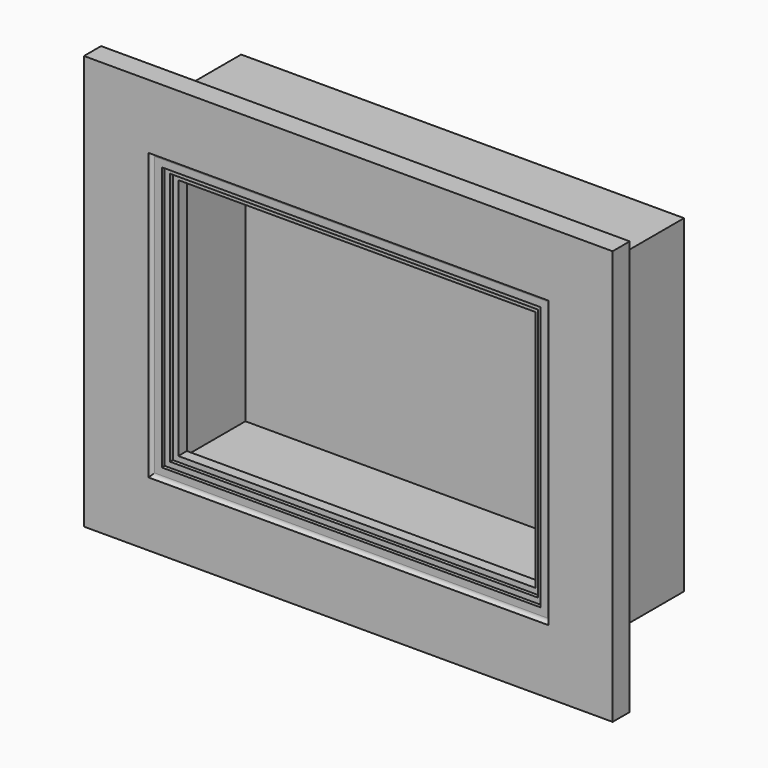
from build123d import *

# Parameters (mm, degrees)
F0_W     = 355.6
F0_H     = 254
F1_DEPTH = 19.05
F2_W     = 107.95
F2_H     = 19.05


with BuildPart() as f1:
    # F0 (on Front) → F1 (new body)
    with BuildSketch(Plane.XZ):
        Rectangle(F0_W, F0_H)
    extrude(amount=F1_DEPTH)


with BuildPart() as f3:
    # F3: sweep along a path in F0
    with BuildLine(Plane.XZ) as f3_path:
        Line((177.8, 127), (-177.8, 127))
        Line((-177.8, 127), (-177.8, -127))
        Line((-177.8, -127), (177.8, -127))
        Line((177.8, -127), (177.8, 127))
    # F2 (on Right) → F3 (sweep)
    with BuildSketch(Plane.YZ):
        with Locations((-53.975, 136.525)):
            Rectangle(F2_W, F2_H)
    sweep(path=f3_path.line, transition=Transition.RIGHT)


with BuildPart() as f5:
    # F5: sweep along a path in F0
    with BuildLine(Plane.XZ) as f5_path:
        Line((177.8, 127), (-177.8, 127))
        Line((-177.8, 127), (-177.8, -127))
        Line((-177.8, -127), (177.8, -127))
        Line((177.8, -127), (177.8, 127))
    # F4 (on Right) → F5 (sweep)
    with BuildSketch(Plane.YZ):
        with BuildLine():
            Line((-107.95, 127), (-107.95, 184.15))
            Line((-107.95, 184.15), (-127, 184.15))
            Line((-127, 184.15), (-127, 127))
            ThreePointArc((-127, 127), (-124.7549359697, 126.0700640303), (-123.825, 123.825))
            Line((-123.825, 123.825), (-123.825, 117.475))
            Line((-123.825, 117.475), (-120.65, 117.475))
            Line((-120.65, 117.475), (-120.65, 112.7125))
            Line((-120.65, 112.7125), (-117.4750008702, 112.7125))
            Line((-117.4750008702, 112.7125), (-117.4750008702, 107.95))
            Line((-117.4750008702, 107.95), (-107.95, 107.95))
            Line((-107.95, 107.95), (-107.95, 127))
        make_face()
    sweep(path=f5_path.line, transition=Transition.RIGHT)


solid = Compound([f1.part, f3.part, f5.part])
